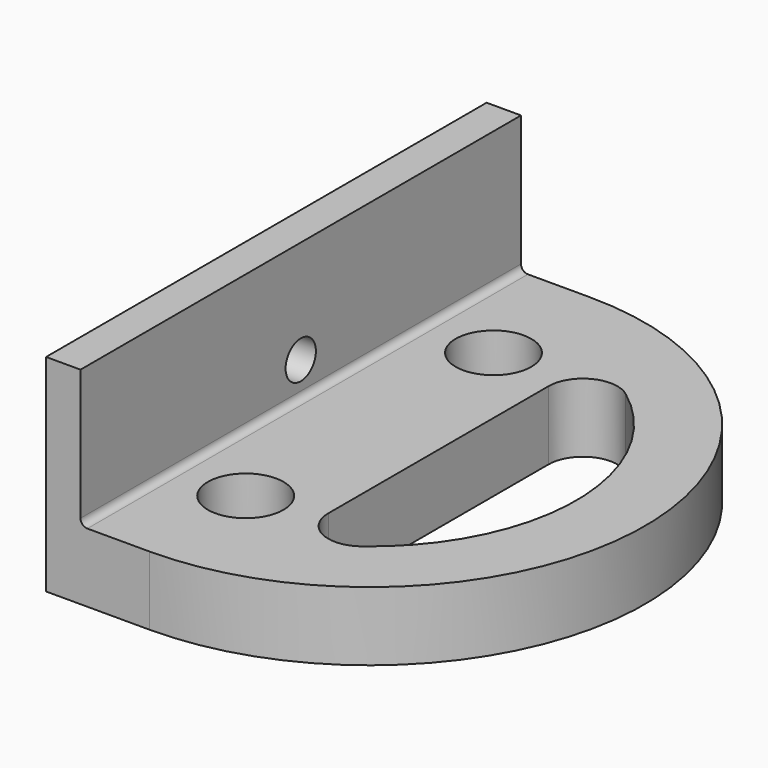
from build123d import *

# Parameters (mm, degrees)
PAD_DEPTH       = 10
SKETCH001_R     = 2
POCKET_DEPTH    = 10.001
SKETCH002_R     = 5.5
POCKET001_DEPTH = 6
SKETCH004_W     = 5
SKETCH004_H     = 80
PAD001_DEPTH    = 20
SKETCH006_W     = 15
SKETCH006_H     = 6
PAD002_DEPTH    = 3
POCKET004_DEPTH = 10.001
SKETCH008_R     = 2.75
POCKET005_DEPTH = 55.001
FILLET_R        = 5
FILLET001_R     = 1


with BuildPart() as part:
    # Sketch → Pad (new body)
    with BuildSketch(Plane.XY):
        with BuildLine():
            Line((0, 0), (0, 80))
            Line((0, 80), (15, 80))
            ThreePointArc((15, 0), (55, 40), (15, 80))
            Line((0, 0), (15, 0))
        make_face()
    extrude(amount=PAD_DEPTH)

    # Sketch001 (on Face6 of Pad) → Pocket (cut, through all)
    with BuildSketch(Plane.XY.offset(10)):
        with Locations((15, 62.5)):
            Circle(SKETCH001_R)
        with Locations((15, 17.5)):
            Circle(SKETCH001_R)
    extrude(amount=-POCKET_DEPTH, mode=Mode.SUBTRACT)

    # Sketch002 (on Face5 of Pocket) → Pocket001 (cut)
    with BuildSketch(Plane.XY.offset(10)):
        with Locations((15, 62.5)):
            Circle(SKETCH002_R)
        with Locations((15, 17.5)):
            Circle(SKETCH002_R)
    extrude(amount=-POCKET001_DEPTH, mode=Mode.SUBTRACT)

    # Sketch004 → Pad001 (join)
    with BuildSketch(Plane.XY.offset(10)):
        with Locations((2.5, 40)):
            Rectangle(SKETCH004_W, SKETCH004_H)
    extrude(amount=PAD001_DEPTH)

    # Sketch006 → Pad002 (join)
    with BuildSketch(Plane(origin=(0, 0, 0), x_dir=(0, -1, 0), z_dir=(-1, 0, 0))):
        with Locations((-62.5, 15)):
            Rectangle(SKETCH006_W, SKETCH006_H)
        with Locations((-17.5, 15)):
            Rectangle(SKETCH006_W, SKETCH006_H)
    extrude(amount=PAD002_DEPTH)

    # Sketch007 (on Face8 of Pad002) → Pocket004 (cut, through all)
    with BuildSketch(Plane.XY.offset(10)):
        with BuildLine():
            ThreePointArc((25, 11.715729), (45, 40), (25, 68.284271))
            Line((25, 68.284271), (25, 11.715729))
        make_face()
    extrude(amount=-POCKET004_DEPTH, mode=Mode.SUBTRACT)

    # Sketch008 (on Face5 of Pocket004) → Pocket005 (cut, through all)
    with BuildSketch(Plane(origin=(0, 0, 0), x_dir=(0, -1, 0), z_dir=(-1, 0, 0))):
        with Locations((-40, 15)):
            Circle(SKETCH008_R)
    extrude(amount=-POCKET005_DEPTH, mode=Mode.SUBTRACT)

    # Fillet
    fillet_edges = [part.edges().sort_by_distance(p)[0] for p in [
        (25, 68.284271, 5),
        (25, 11.715729, 5),
    ]]
    fillet(fillet_edges, radius=FILLET_R)

    # Fillet001
    fillet001_edges = [part.edges().sort_by_distance(p)[0] for p in [
        (5, 40, 10),
    ]]
    fillet(fillet001_edges, radius=FILLET001_R)


solid = part.part
